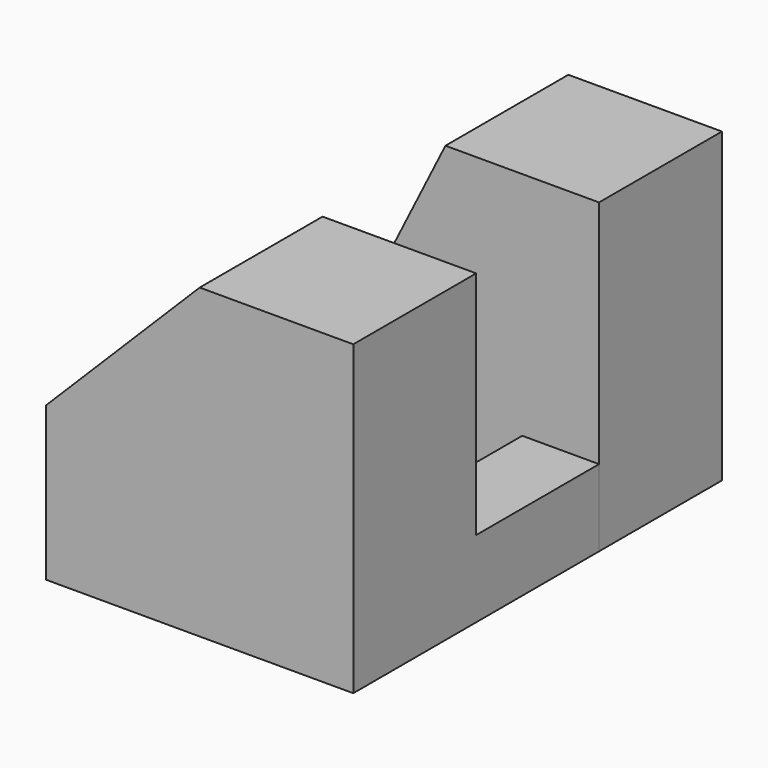
from build123d import *

# Parameters (mm, degrees)
F0_W      = 12.7
F0_H      = 25.4
F1_DEPTH  = 12.7
F2_W      = 12.7
F2_H      = 12.7
F3_DEPTH  = 12.7
F5_DEPTH  = 12.7
F6_W      = 12.7
F6_H      = 6.35
F7_DEPTH  = 6.35
F8_W      = 12.7
F8_H      = 12.7
F9_DEPTH  = 25.4
F11_DEPTH = 12.7


with BuildPart() as f1:
    # F0 (on Front) → F1 (new body)
    with BuildSketch(Plane.XZ):
        with Locations((6.35, 12.7)):
            Rectangle(F0_W, F0_H)
    extrude(amount=F1_DEPTH)

    # F2 (on face) → F3 (join)
    with BuildSketch(Plane.XZ.offset(12.7)):
        with Locations((-6.35, 6.35)):
            Rectangle(F2_W, F2_H)
    extrude(amount=-F3_DEPTH)

    # F4 (on face) → F5 (join)
    with BuildSketch(Plane.XZ.offset(12.7)):
        Polygon((0, 25.4), (-12.7, 12.7), (0, 12.7), align=None)
    extrude(amount=-F5_DEPTH)

    # F6 (on face) → F7 (join)
    with BuildSketch(Plane.YZ.offset(12.7)):
        with Locations((6.35, 3.175)):
            Rectangle(F6_W, F6_H)
    extrude(amount=-F7_DEPTH)


with BuildPart() as f9:
    # F8 (on face) → F9 (new body)
    with BuildSketch(Plane(origin=(0, 0, 0), x_dir=(1, 0, 0), z_dir=(0, 0, -1))):
        with Locations((6.35, -19.05)):
            Rectangle(F8_W, F8_H)
    extrude(amount=-F9_DEPTH)

    # F10 (on face) → F11 (join)
    with BuildSketch(Plane(origin=(0, 25.4, 0), x_dir=(-1, 0, 0), z_dir=(0, 1, 0))):
        Polygon((0, 25.4), (0, 0), (12.7, 0), align=None)
    extrude(amount=-F11_DEPTH)


solid = Compound([f1.part, f9.part])
